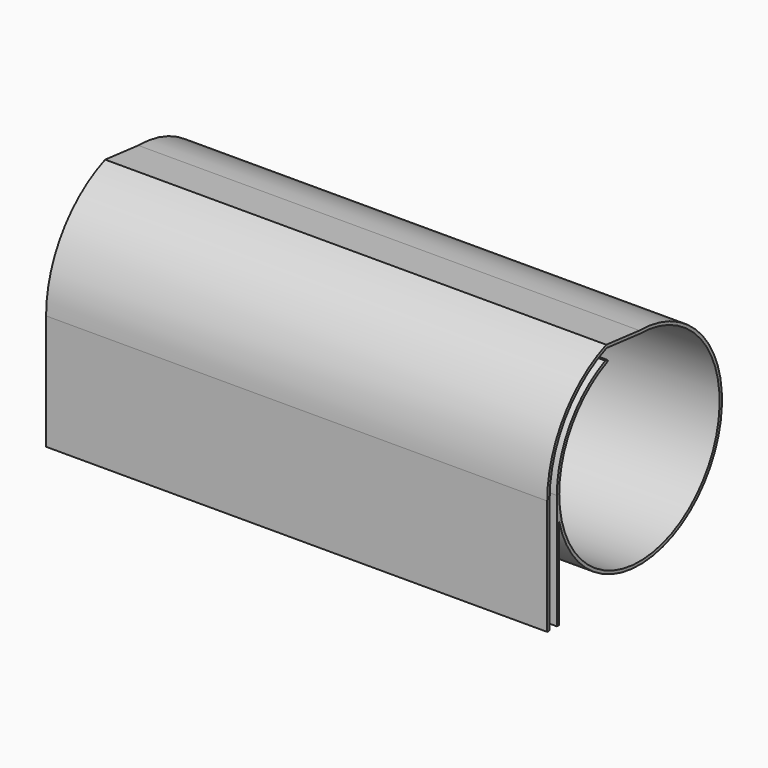
from build123d import *

# Parameters (mm, degrees)
F1_DEPTH = 500


with BuildPart() as f1:
    # F0 (on Right) → F1 (new body)
    with BuildSketch(Plane.YZ):
        with BuildLine():
            ThreePointArc((-112, 0), (-92.531515, 63.102447), (-40.894307, 104.267232))
            Line((-40.894307, 104.267232), (-41.337771, 107.313507))
            ThreePointArc((-41.337771, 107.313507), (-94.812562, 65.08132), (-115, 0))
            Line((-115, 0), (-115, -115))
            Line((-115, -115), (-112, -115))
            Line((-112, -115), (-112, 0))
        make_face()
        with BuildLine():
            ThreePointArc((-100, 0), (-83.679091, 54.752258), (-40.043805, 91.632383))
            ThreePointArc((-40.043805, 91.632383), (-39.456507, 92.701332), (-40.340243, 93.541916))
            Line((-40.340243, 93.541916), (-42.599807, 93.777697))
            ThreePointArc((-42.599807, 93.777697), (-86.593245, 55.772842), (-103, 0))
            Line((-103, 0), (-103, -115))
            Line((-103, -115), (-100, -115))
            Line((-100, -115), (-100, -24.677925))
            Line((-100, -24.677925), (-100, 0))
        make_face()
        with BuildLine():
            ThreePointArc((0, 100), (70.710678, -70.710678), (-100, 0))
            Line((-100, 0), (-100, -24.677925))
            ThreePointArc((-100, -24.677925), (81.088921, -63.510525), (0, 103))
            Line((0, 103), (0, 100))
        make_face()
        Polygon((-40.894307, 104.267232), (0, 100), (0, 103), (-41.337771, 107.313507), align=None)
    extrude(amount=F1_DEPTH)


solid = f1.part
